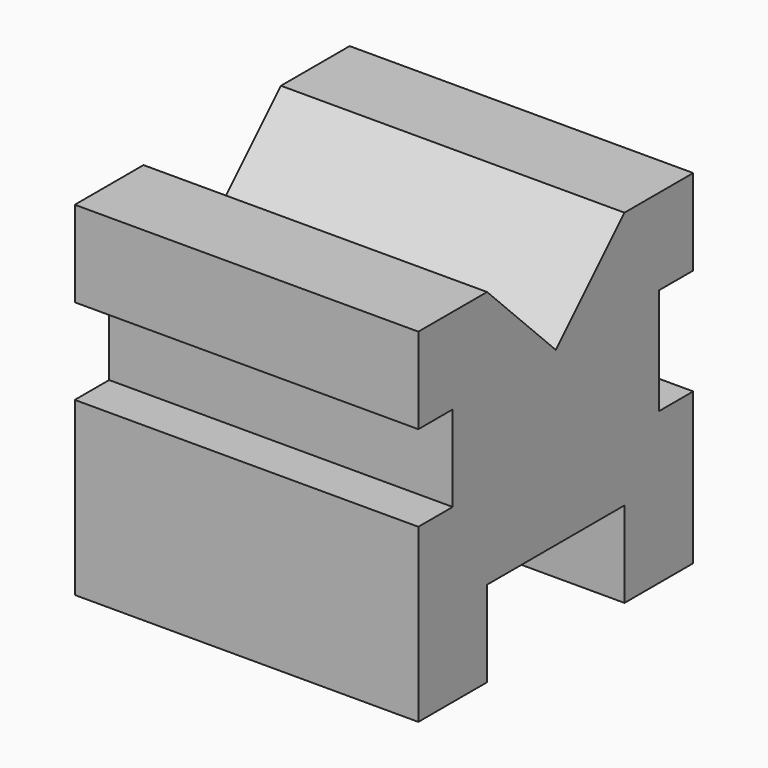
from build123d import *

# Parameters (mm, degrees)
F0_W     = 101.6
F0_H     = 101.6
F1_DEPTH = 101.6
F2_W     = 12.7
F2_H     = 31.454976
F2_H_2   = 25.4
F2_W_2   = 25.4
F3_DEPTH = 101.6
F5_DEPTH = 101.6


with BuildPart() as f1:
    # F0 (on Top) → F1 (new body)
    with BuildSketch(Plane.XY):
        Rectangle(F0_W, F0_H)
    extrude(amount=F1_DEPTH)

    # F2 (on face) → F3 (cut)
    with BuildSketch(Plane(origin=(-50.8, 0, 0), x_dir=(0, -1, 0), z_dir=(-1, 0, 0))):
        with Locations((-44.45, 60.472512)):
            Rectangle(F2_W, F2_H)
        with Locations((44.45, 63.5)):
            Rectangle(F2_W, F2_H_2)
        with Locations((-12.7, 12.7)):
            Rectangle(F2_W_2, F2_H_2)
        with Locations((12.7, 12.7)):
            Rectangle(F2_W_2, F2_H_2)
    extrude(amount=-F3_DEPTH, mode=Mode.SUBTRACT)

    # F4 (on face) → F5 (cut)
    with BuildSketch(Plane(origin=(-50.8, 0, 0), x_dir=(0, -1, 0), z_dir=(-1, 0, 0))):
        Polygon((0, 101.6), (-25.4, 101.6), (0, 76.2), align=None)
        Polygon((25.4, 101.6), (0, 101.6), (0, 76.2), align=None)
    extrude(amount=-F5_DEPTH, mode=Mode.SUBTRACT)


solid = f1.part
